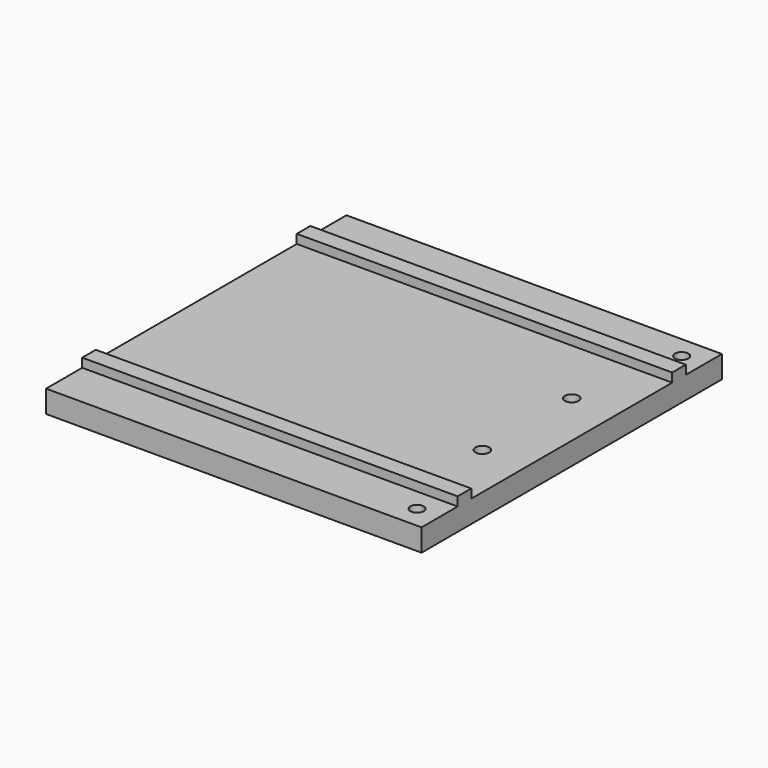
from build123d import *

# Parameters (mm, degrees)
PAD015_DEPTH    = 84
SKETCH025_R     = 3
POCKET009_DEPTH = 3.1
SKETCH026_R     = 1.55
POCKET010_DEPTH = 3.9054430506
SKETCH029_R     = 1.5
POCKET013_DEPTH = 5.0055349839


with BuildPart() as part:
    # Sketch024 (on DatumPlane) → Pad015 (new body)
    with BuildSketch(Plane(origin=(42.0007630338, 0.0001547258, 16.9985727734), x_dir=(0, -1, 9.1023e-06), z_dir=(0.999999999, -4e-10, -4.48856e-05))):
        Polygon((-42, 22.85), (-31.9, 22.85), (-31.9, 20.85), (-28.1, 20.85), (-28.1, 22.85), (28.1, 22.85), (28.1, 20.85), (31.9, 20.85), (31.9, 22.85), (42, 22.85), (42, 27.85), (-42, 27.85), align=None)
    extrude(amount=-PAD015_DEPTH)

    # Sketch025 (on Face11 of Pad015) → Pocket009 (cut)
    with BuildSketch(Plane(origin=(41.9995129693, -9.87728e-05, -10.8514271974), x_dir=(0, 1, -9.1023e-06), z_dir=(-4.48856e-05, -9.1023e-06, -0.999999999))):
        with Locations((-12.5, -10)):
            Circle(SKETCH025_R)
        with Locations((12.5, -10)):
            Circle(SKETCH025_R)
    extrude(amount=-POCKET009_DEPTH, mode=Mode.SUBTRACT)

    # Sketch026 (on Face17 of Pocket009) → Pocket010 (cut, through all)
    with BuildSketch(Plane(origin=(41.9996521147, -7.05557e-05, -7.7514272007), x_dir=(0, 1, -9.1023e-06), z_dir=(-4.48856e-05, -9.1023e-06, -0.999999999))):
        with Locations((-12.5, -10)):
            Circle(SKETCH026_R)
        with Locations((12.5, -10)):
            Circle(SKETCH026_R)
    extrude(amount=-POCKET010_DEPTH, mode=Mode.SUBTRACT)

    # Sketch029 (on Face13 of Pocket010) → Pocket013 (cut, through all)
    with BuildSketch(Plane(origin=(41.9997373974, -5.32613e-05, -5.8514272027), x_dir=(0, -1, 9.1023e-06), z_dir=(4.48856e-05, 9.1023e-06, 0.999999999))):
        with Locations((37, -5)):
            Circle(SKETCH029_R)
        with Locations((-37, -5)):
            Circle(SKETCH029_R)
    extrude(amount=-POCKET013_DEPTH, mode=Mode.SUBTRACT)


solid = part.part
